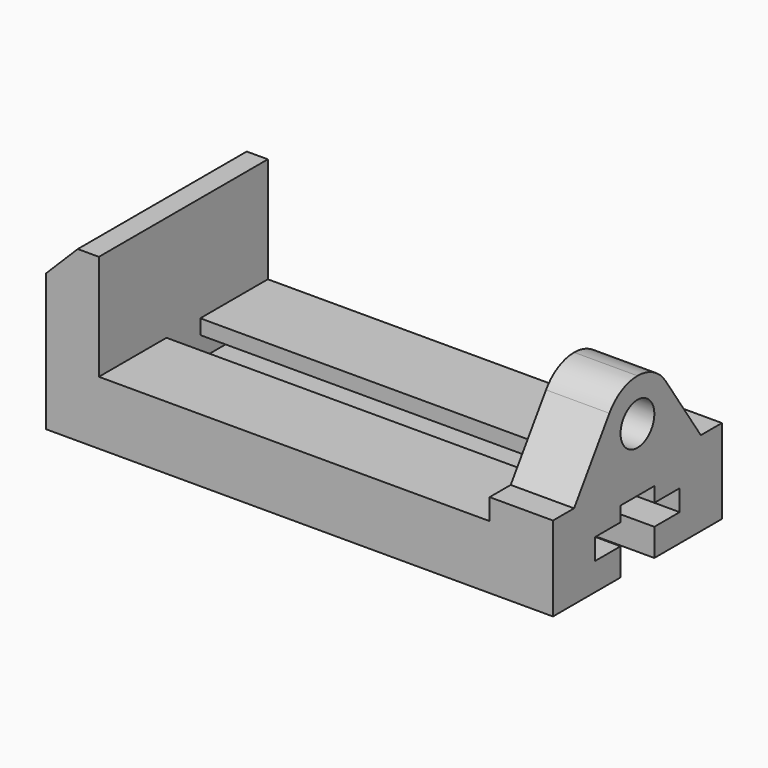
from build123d import *

# Parameters (mm, degrees)
F0_W      = 304.8
F0_H      = 50.8
F1_DEPTH  = 127
F3_DEPTH  = 273.05
F4_W      = 266.7
F4_H      = 12.7
F5_DEPTH  = 127.001
F6_W      = 31.75
F6_H      = 63.5
F7_DEPTH  = 127
F8_W      = 38.1
F8_H      = 127
F9_DEPTH  = 50.8
F10_R     = 12.7
F11_DEPTH = 38.1
F12_SIZE  = 19.05


with BuildPart() as f1:
    # F0 (on Front) → F1 (new body)
    with BuildSketch(Plane.XZ):
        with Locations((152.4, 25.4)):
            Rectangle(F0_W, F0_H)
    extrude(amount=F1_DEPTH)

    # F2 (on face) → F3 (cut)
    with BuildSketch(Plane.YZ.offset(304.8)):
        Polygon((-76.2, 0), (-63.5, 0), (-63.5, 38.1), (-76.2, 38.1), (-76.2, 29.21), (-95.25, 29.21), (-95.25, 16.51), (-76.2, 16.51), align=None)
        Polygon((-63.5, 38.1), (-63.5, 0), (-50.8, 0), (-50.8, 16.51), (-31.75, 16.51), (-31.75, 29.21), (-50.8, 29.21), (-50.8, 38.1), align=None)
    extrude(amount=-F3_DEPTH, mode=Mode.SUBTRACT)

    # F4 (on face) → F5 (cut, through all)
    with BuildSketch(Plane.XZ.offset(127)):
        with Locations((133.35, 44.45)):
            Rectangle(F4_W, F4_H)
    extrude(amount=-F5_DEPTH, mode=Mode.SUBTRACT)

    # F6 (on Front) → F7 (join)
    with BuildSketch(Plane.XZ):
        with Locations((15.875, 69.85)):
            Rectangle(F6_W, F6_H)
    extrude(amount=F7_DEPTH)

    # F8 (on face) → F9 (join)
    with BuildSketch(Plane.XY.offset(50.8)):
        with Locations((285.75, -63.5)):
            Rectangle(F8_W, F8_H)
    extrude(amount=F9_DEPTH)

    # F10 (on face) → F11 (cut, through all)
    with BuildSketch(Plane.YZ.offset(304.8)):
        with Locations((-63.5, 76.2)):
            Circle(F10_R)
        with BuildLine():
            Line((-127, 101.6), (-127, 50.8))
            Line((-127, 50.8), (-111.125, 50.8))
            Line((-111.125, 50.8), (-84.5934256055, 90.3501730104))
            ThreePointArc((-84.5934256055, 90.3501730104), (-75.4529411461, 98.6117647221), (-63.4999999312, 101.6))
            Line((-63.4999999312, 101.6), (-127, 101.6))
        make_face()
        with BuildLine():
            Line((0, 101.6), (-63.4999999312, 101.6))
            ThreePointArc((-63.4999999312, 101.6), (-51.5470587932, 98.6117646897), (-42.4065743945, 90.3501730104))
            Line((-42.4065743945, 90.3501730104), (-15.875, 50.8))
            Line((-15.875, 50.8), (0, 50.8))
            Line((0, 50.8), (0, 101.6))
        make_face()
    extrude(amount=-F11_DEPTH, mode=Mode.SUBTRACT)

    # F12
    f12_edges = [f1.edges().sort_by_distance(p)[0] for p in [
        (0, -63.5, 101.6),
    ]]
    chamfer(f12_edges, length=F12_SIZE)


solid = f1.part
